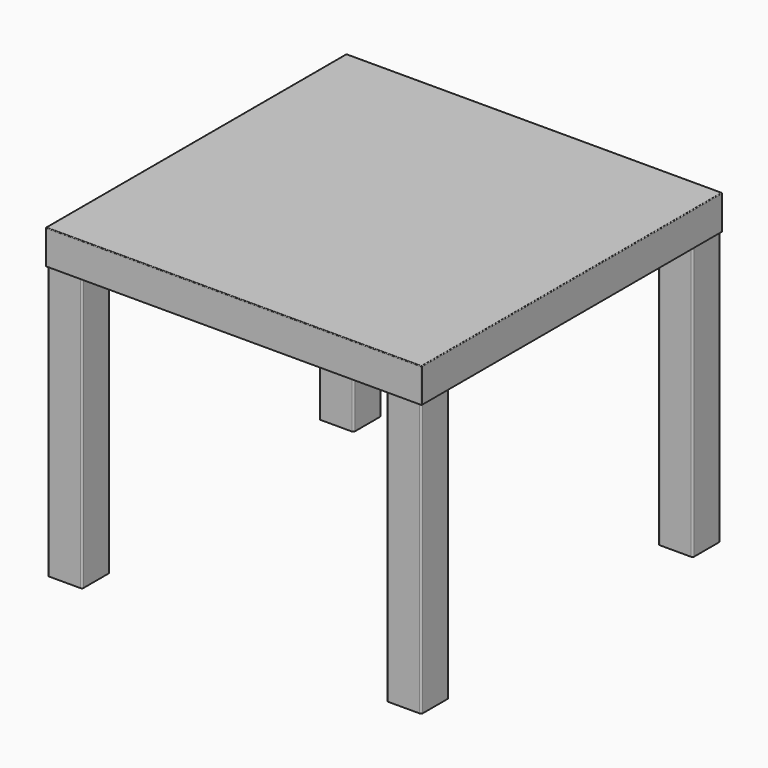
from build123d import *

# Parameters (mm, degrees)
F1_W     = 551
F1_H     = 551
F1_W_2   = 50.7
F1_H_2   = 50.7
F2_DEPTH = 50.1
F4_DEPTH = 400
F5_R     = 2.5
F6_R     = 1


with BuildPart() as f2:
    # F1 (on Top) → F2 (new body)
    with BuildSketch(Plane.XY):
        Rectangle(F1_W, F1_H)
        with Locations((-248.65, -248.65)):
            Rectangle(F1_W_2, F1_H_2, mode=Mode.SUBTRACT)
        with Locations((248.65, -248.65)):
            Rectangle(F1_W_2, F1_H_2, mode=Mode.SUBTRACT)
        with Locations((-248.65, 248.65)):
            Rectangle(F1_W_2, F1_H_2, mode=Mode.SUBTRACT)
        with Locations((248.65, 248.65)):
            Rectangle(F1_W_2, F1_H_2, mode=Mode.SUBTRACT)
        with Locations((-248.65, 248.65)):
            Rectangle(F1_W_2, F1_H_2)
        with Locations((248.65, 248.65)):
            Rectangle(F1_W_2, F1_H_2)
        with Locations((-248.65, -248.65)):
            Rectangle(F1_W_2, F1_H_2)
        with Locations((248.65, -248.65)):
            Rectangle(F1_W_2, F1_H_2)
    extrude(amount=-F2_DEPTH)


with BuildPart() as f2_1:
    # F3: moved
    add(f2.part.moved(Location((0, 0, 450))))

    # F1 (on Top) → F4 (join)
    with BuildSketch(Plane.XY):
        with Locations((-248.65, 248.65)):
            Rectangle(F1_W_2, F1_H_2)
        with Locations((248.65, -248.65)):
            Rectangle(F1_W_2, F1_H_2)
        with Locations((-248.65, -248.65)):
            Rectangle(F1_W_2, F1_H_2)
        with Locations((248.65, 248.65)):
            Rectangle(F1_W_2, F1_H_2)
    extrude(amount=F4_DEPTH)

    # F5
    f5_edges = [f2_1.edges().sort_by_distance(p)[0] for p in [
        (-274, -274, 199.95),
        (-274, 223.3, 199.95),
        (223.3, 223.3, 199.95),
        (223.3, -274, 199.95),
        (-223.3, -274, 199.95),
        (-223.3, 223.3, 199.95),
        (274, -274, 199.95),
        (274, 223.3, 199.95),
        (-223.3, -223.3, 199.95),
        (274, -223.3, 199.95),
        (-223.3, 274, 199.95),
        (274, 274, 199.95),
        (223.3, -223.3, 199.95),
        (-274, -223.3, 199.95),
        (223.3, 274, 199.95),
        (-274, 274, 199.95),
    ]]
    fillet(f5_edges, radius=F5_R)

    # F6
    f6_edges = [f2_1.edges().sort_by_distance(p)[0] for p in [
        (0, -275.5, 450),
        (275.5, 0, 450),
        (-275.5, 0, 450),
        (0, 275.5, 450),
        (275.5, -275.5, 424.95),
        (-275.5, -275.5, 424.95),
        (275.5, 275.5, 424.95),
        (-275.5, 275.5, 424.95),
    ]]
    fillet(f6_edges, radius=F6_R)


solid = f2_1.part
